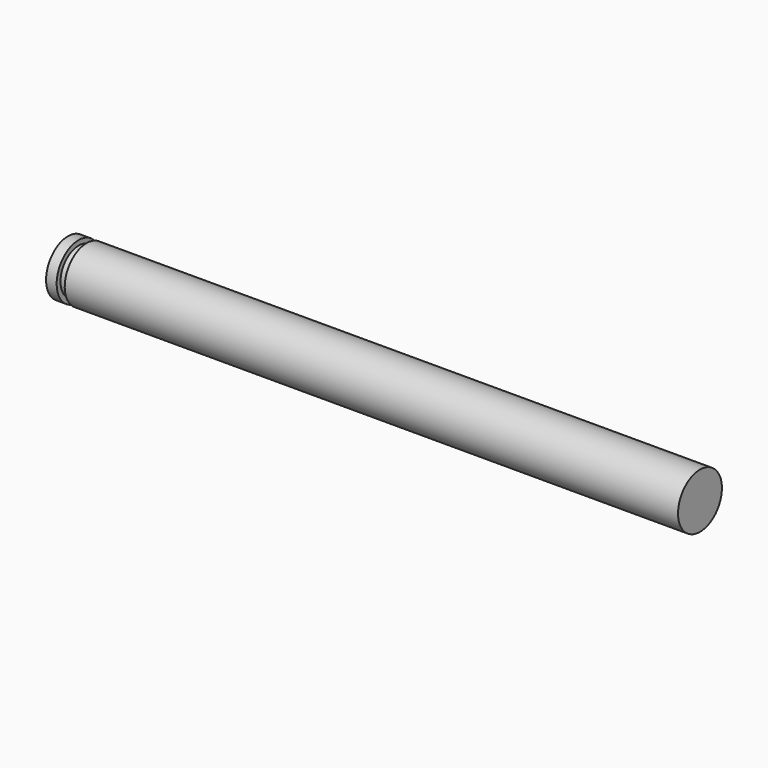
from build123d import *


with BuildPart() as f1:
    # F0 (on Front) → F1 (revolve)
    with BuildSketch(Plane.XZ):
        Polygon((-19, -0.85), (19, -0.85), (19, 0.85), (-19, 0.85), (-19, 0.55), (-19, -0.55), align=None)
        Polygon((-19.5, -0.55), (-19, -0.55), (-19, 0.55), (-19.5, 0.55), (-19.5, 0.85), (-20.155381, 0.85), (-20.155381, -0.85), (-19.5, -0.85), align=None)
    revolve(axis=Axis((0, 0, -0.85), (-1, 0, 0)))


solid = f1.part
